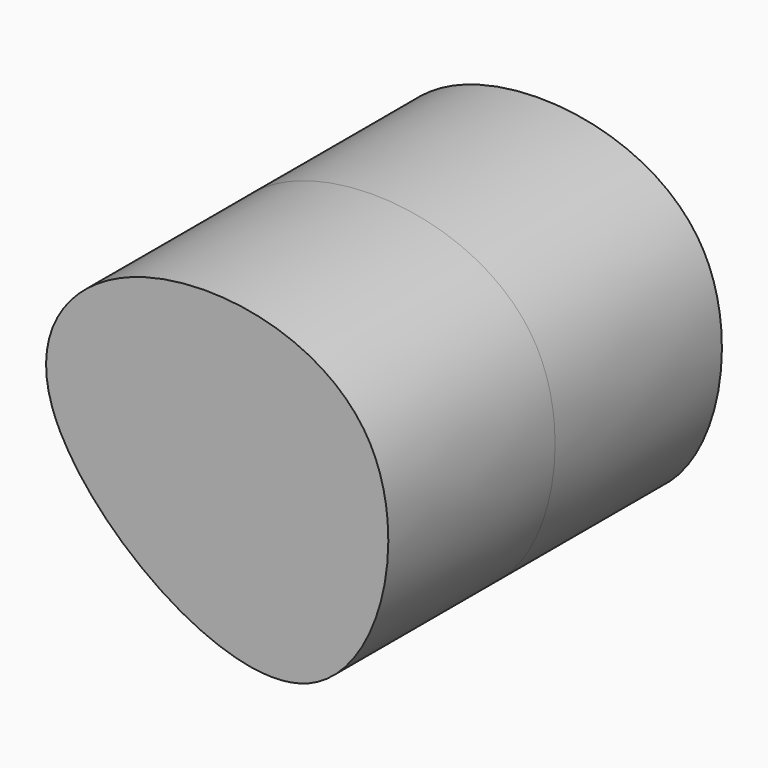
from build123d import *

# Parameters (mm, degrees)
F1_DEPTH = 63.5


with BuildPart() as f1:
    # F0 (on Front) → F1 (new body, symmetric)
    with BuildSketch(Plane.XZ):
        with BuildLine():
            add(Edge.make_bspline(
                [(-45.7301959395, 5.1794946194), (-52.2431589524, 24.4409162157), (-26.6919075987, 61.2672013256), (73.5229791443, 44.7620645963), (43.3878933397, -81.0382053945), (-36.8467127023, -21.0924979497), (-45.7301959395, 5.1794946194)],
                knots=[0, 0, 0, 0, 0.2068740965, 0.4636440556, 0.7178300314, 1, 1, 1, 1], degree=3))
        make_face()
    extrude(amount=F1_DEPTH, both=True)


solid = f1.part
